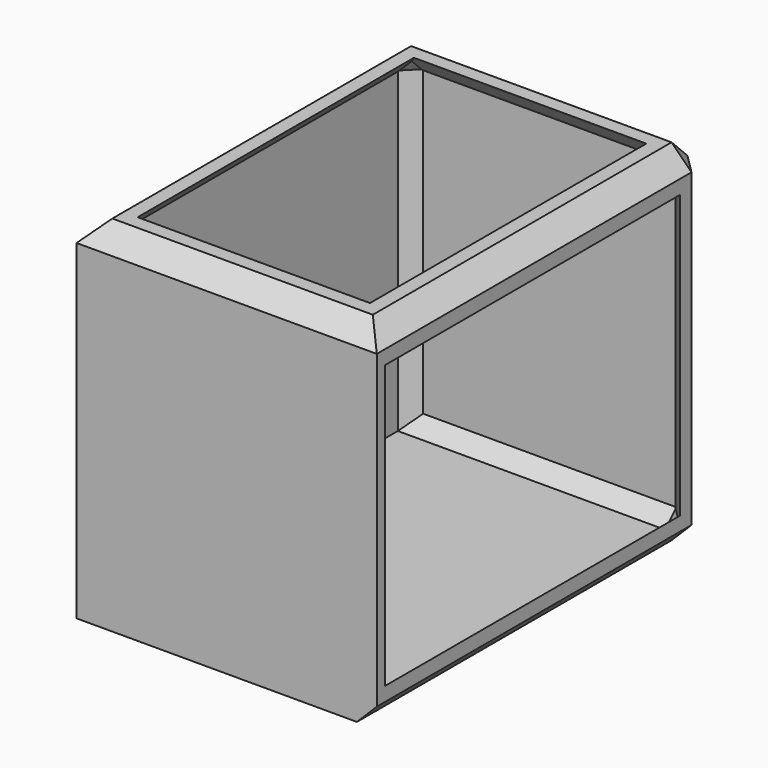
from build123d import *

# Parameters (mm, degrees)
F1_W     = 76.656278
F1_H     = 89.442563
F2_DEPTH = 105.492987
F4_SIZE  = 5.08
F5_T     = -2.54


with BuildPart() as f2:
    # F1 (on face) → F2 (new body)
    with BuildSketch(Plane.XZ):
        with Locations((-9.342497, 12.035428)):
            Rectangle(F1_W, F1_H)
    extrude(amount=F2_DEPTH)

    # F4
    f4_edges = [f2.edges().sort_by_distance(p)[0] for p in [
        (-9.342497, 0, 56.756709),
        (28.985642, -52.746493, 56.756709),
        (-47.670636, -52.746493, 56.756709),
        (-9.342497, -105.492987, 56.756709),
        (-9.342497, 0, -32.685854),
        (28.985642, 0, 12.035428),
        (-47.670636, 0, 12.035428),
        (28.985642, -52.746493, -32.685854),
    ]]
    chamfer(f4_edges, length=F4_SIZE)

    # F5
    f5_openings = [f2.faces().sort_by_distance(p)[0] for p in [
        (28.985642, -55.286493, 12.035428),
        (-9.342497, -52.746493, 56.756709),
    ]]
    offset(amount=F5_T, openings=f5_openings)


solid = f2.part
